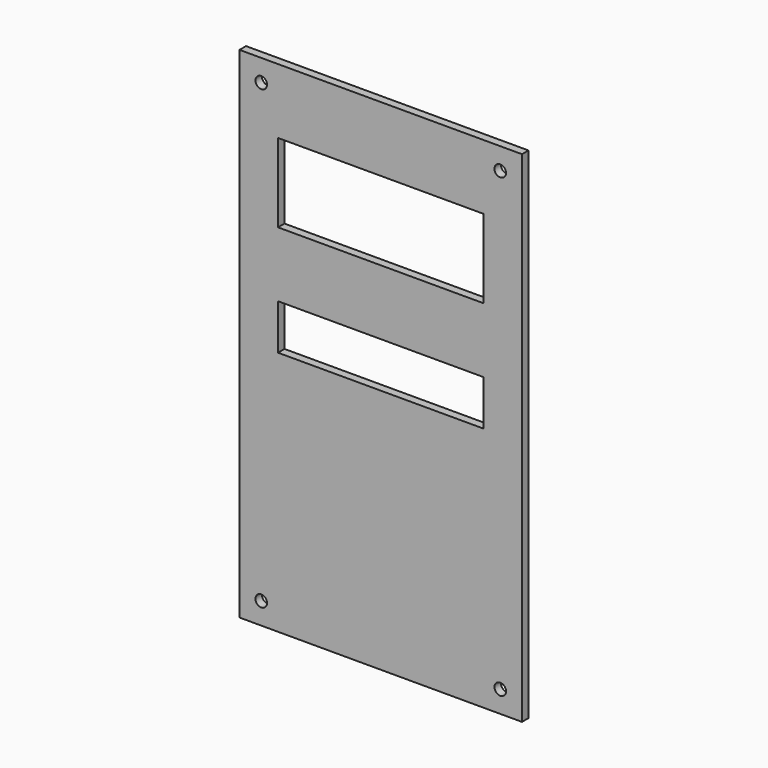
from build123d import *

# Parameters (mm, degrees)
F0_W     = 165.1
F0_H     = 292.1
F1_DEPTH = 4.7625
F3_D     = 6.7564
F4_W     = 120
F4_H     = 46
F4_H_2   = 26.5
F5_DEPTH = 4.7635


with BuildPart() as f1:
    # F0 (on Front) → F1 (new body)
    with BuildSketch(Plane.XZ):
        with Locations((82.55, 146.05)):
            Rectangle(F0_W, F0_H)
    extrude(amount=F1_DEPTH)

    # F3 (through all)
    with Locations(Plane.XZ.offset(4.7625)):
        with Locations((12.7, 279.4), (152.4, 279.4), (12.7, 12.7), (152.4, 12.7)):
            Hole(F3_D / 2)

    # F4 (on face) → F5 (cut, through all)
    with BuildSketch(Plane.XZ.offset(4.7625)):
        with Locations((82.5, 231.1)):
            Rectangle(F4_W, F4_H)
        with Locations((82.5, 156.85)):
            Rectangle(F4_W, F4_H_2)
    extrude(amount=-F5_DEPTH, mode=Mode.SUBTRACT)


solid = f1.part
